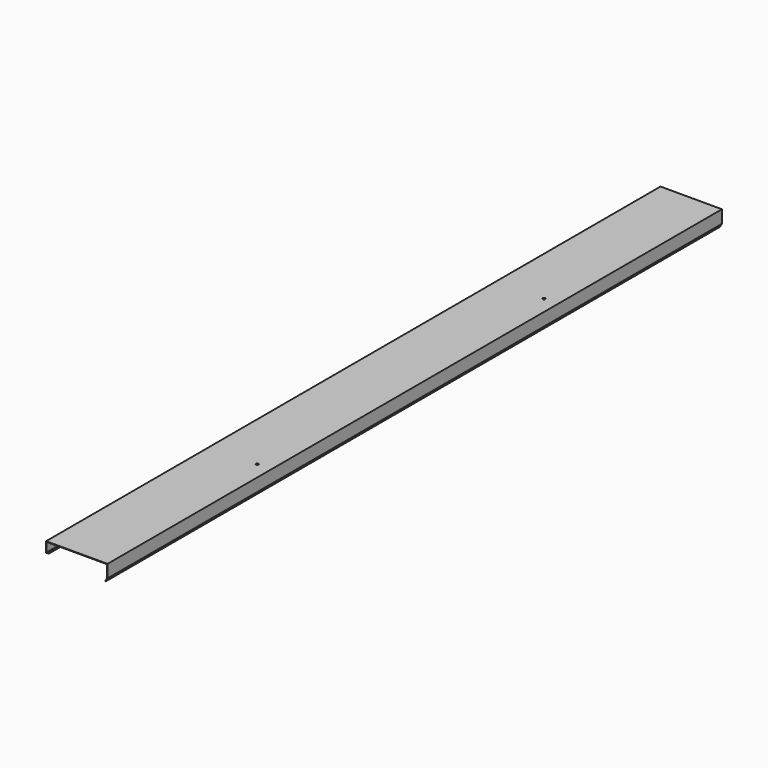
from build123d import *

# Parameters (mm, degrees)
F1_DEPTH = 1500
F3_D     = 10


with BuildPart() as f1:
    # F0 (on Front) → F1 (new body, symmetric)
    with BuildSketch(Plane.XZ):
        Polygon((117.2245608195, 2), (-82.7754391805, 2), (-122.7754391805, 2), (-122.7754391805, -38), (-112.7754391805, -38), (-112.7754391805, -36), (-120.7754391805, -36), (-120.7754391805, 0), (-82.7754391805, 0), (115.2245608195, 0), (115.2245608195, -47.4653829816), (108.0068537776, -60.001411454), (109.7400990692, -60.9993396874), (117.2245608195, -48), align=None)
    extrude(amount=F1_DEPTH, both=True)

    # F3 (through all)
    with Locations(Plane.XY.offset(2)):
        with Locations((62.2245608195, -700), (62.2245608195, 700)):
            Hole(F3_D / 2)


solid = f1.part
